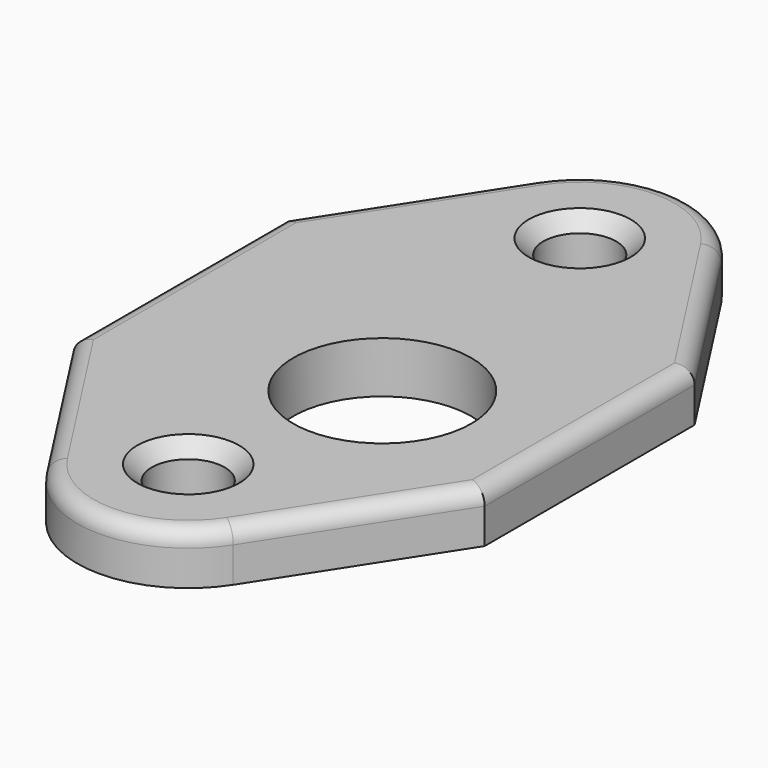
from build123d import *

# Parameters (mm, degrees)
SKETCH_R         = 5.5
PAD_DEPTH        = 3.17
HOLE_D           = 4.5
HOLE_DEPTH       = 25
HOLE_CSINK_D     = 6.3
HOLE_CSINK_ANGLE = 90
FILLET_R         = 1


with BuildPart() as part:
    # Sketch → Pad (new body)
    with BuildSketch(Plane.XY):
        with BuildLine():
            Line((-12.7, 8.1026), (-5.758899, 18.836875))
            ThreePointArc((5.758899, 18.836875), (0, 21.971), (-5.758899, 18.836875))
            Line((5.758899, 18.836875), (12.7, 8.1026))
            Line((12.7, 8.1026), (12.7, -8.1026))
            Line((12.7, -8.1026), (5.758899, -18.836875))
            ThreePointArc((-5.758899, -18.836875), (0, -21.971), (5.758899, -18.836875))
            Line((-5.758899, -18.836875), (-12.7, -8.1026))
            Line((-12.7, -8.1026), (-12.7, 8.1026))
        make_face()
        with Locations((2.5146, -3.2766)):
            Circle(SKETCH_R, mode=Mode.SUBTRACT)
    extrude(amount=-PAD_DEPTH)

    # Hole
    with Locations(Plane.XY):
        with Locations((0, 15.113), (0, -15.113)):
            CounterSinkHole(HOLE_D / 2, HOLE_CSINK_D / 2, depth=HOLE_DEPTH, counter_sink_angle=HOLE_CSINK_ANGLE)

    # Fillet
    fillet_edges = [part.edges().sort_by_distance(p)[0] for p in [
        (0, -21.971, 0),
        (12.7, 0, 0),
        (-12.7, 0, 0),
        (-9.22945, 13.469738, 0),
    ]]
    fillet(fillet_edges, radius=FILLET_R)


solid = part.part
